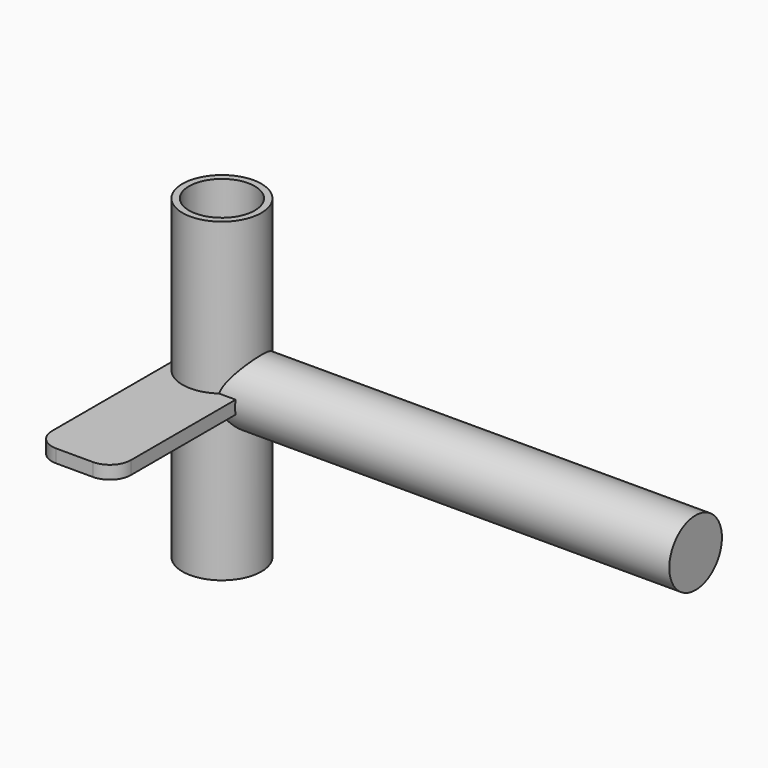
from build123d import *

# Parameters (mm, degrees)
F0_R     = 9.525
F0_R_2   = 7.9375
F1_DEPTH = 38.1
F2_R     = 7.9375
F3_DEPTH = 114.3
F4_W     = 19.05
F4_H     = 3.175
F5_DEPTH = 44.45
F6_R     = 5.08


with BuildPart() as f1:
    # F0 (on Top) → F1 (new body, symmetric)
    with BuildSketch(Plane.XY):
        Circle(F0_R)
        Circle(F0_R_2, mode=Mode.SUBTRACT)
    extrude(amount=F1_DEPTH, both=True)

    # F2 (on Right) → F3 (join)
    with BuildSketch(Plane.YZ):
        Circle(F2_R)
    extrude(amount=F3_DEPTH)

    # F4 (on Front) → F5 (join)
    with BuildSketch(Plane.XZ):
        Rectangle(F4_W, F4_H)
    extrude(amount=F5_DEPTH)

    # F6
    f6_edges = [f1.edges().sort_by_distance(p)[0] for p in [
        (-9.525, -44.45, 0),
        (9.525, -44.45, 0),
    ]]
    fillet(f6_edges, radius=F6_R)


solid = f1.part
